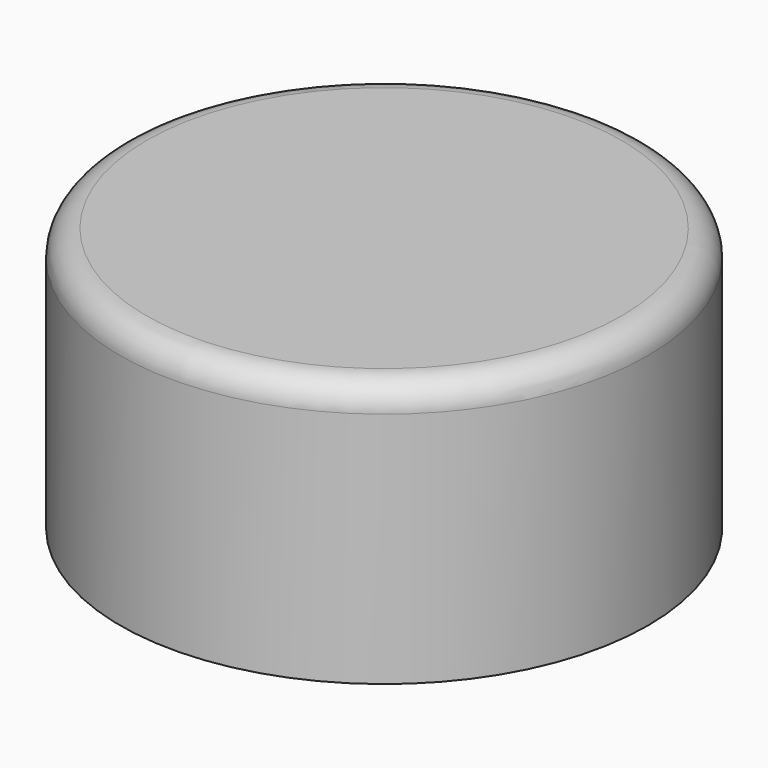
from build123d import *

# Parameters (mm, degrees)
F0_R     = 25.4
F1_DEPTH = 12.7
F2_T     = -2.54
F3_R     = 2.54


with BuildPart() as f1:
    # F0 (on Top) → F1 (new body, symmetric)
    with BuildSketch(Plane.XY):
        Circle(F0_R)
    extrude(amount=F1_DEPTH, both=True)

    # F2
    f2_openings = [f1.faces().sort_by_distance(p)[0] for p in [
        (0, 0, -12.7),
    ]]
    offset(amount=F2_T, openings=f2_openings)

    # F3
    f3_edges = [f1.edges().sort_by_distance(p)[0] for p in [
        (-25.4, 0, 12.7),
    ]]
    fillet(f3_edges, radius=F3_R)


solid = f1.part
